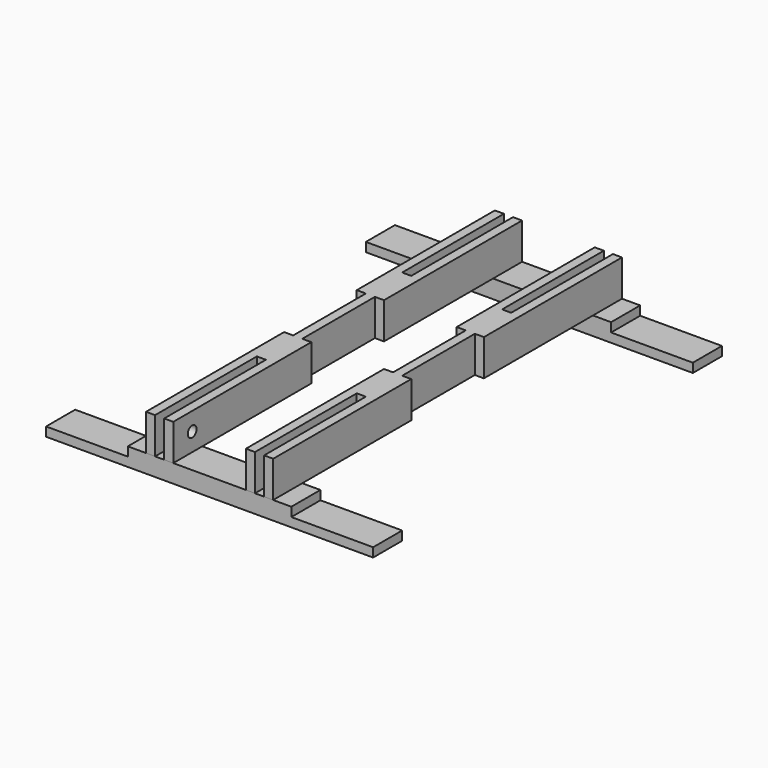
from build123d import *

# Parameters (mm, degrees)
F0_W      = 57.15
F0_H      = 25.4
F1_DEPTH  = 6.35
F0_W_2    = 114.3
F2_DEPTH  = 12.7
F4_W      = 6.35
F4_H      = 25.4
F5_DEPTH  = 304.8
F6_W      = 63.5
F6_H      = 25.4
F7_DEPTH  = 6.35
F8_W      = 63.5
F8_H      = 25.4
F9_DEPTH  = 6.35
F10_W     = 63.5
F10_H     = 25.4
F11_DEPTH = 6.35
F12_W     = 63.5
F12_H     = 25.4
F13_DEPTH = 6.35
F14_W     = 6.35
F14_H     = 88.9
F15_DEPTH = 25.4
F16_R     = 3.81
F17_DEPTH = 6.35
F18_R     = 3.81
F19_DEPTH = 6.35


with BuildPart() as f1:
    # F0 (on Top) → F1 (new body)
    with BuildSketch(Plane.XY):
        with Locations((85.725, -139.7)):
            Rectangle(F0_W, F0_H)
        with Locations((-85.725, -139.7)):
            Rectangle(F0_W, F0_H)
        with Locations((-85.725, 139.7)):
            Rectangle(F0_W, F0_H)
        with Locations((85.725, 139.7)):
            Rectangle(F0_W, F0_H)
    extrude(amount=F1_DEPTH)


with BuildPart() as f2:
    # F0 (on Top) → F2 (new body)
    with BuildSketch(Plane.XY):
        Polygon((-57.15, -127), (-57.15, -152.4), (57.15, -152.4), (57.15, -127), (0, -127), align=None)
        with Locations((0, 139.7)):
            Rectangle(F0_W_2, F0_H)
    extrude(amount=F2_DEPTH)


with BuildPart() as f1_1:
    add(f1.part)

    # F3: union F2
    add(f2.part)


with BuildPart() as f5:
    # F4 (on face) → F5 (new body)
    with BuildSketch(Plane.XZ.offset(152.4)):
        with Locations((-41.275, 25.4)):
            Rectangle(F4_W, F4_H)
        with Locations((-28.575, 25.4)):
            Rectangle(F4_W, F4_H)
        with Locations((41.275, 25.4)):
            Rectangle(F4_W, F4_H)
        with Locations((-34.925, 25.4)):
            Rectangle(F4_W, F4_H)
        with Locations((28.575, 25.4)):
            Rectangle(F4_W, F4_H)
        with Locations((34.925, 25.4)):
            Rectangle(F4_W, F4_H)
        with Locations((41.275, 25.4)):
            Rectangle(F4_W, F4_H)
    extrude(amount=-F5_DEPTH)

    # F6 (on face) → F7 (cut)
    with BuildSketch(Plane.YZ.offset(44.45)):
        with Locations((0, 25.4)):
            Rectangle(F6_W, F6_H)
    extrude(amount=-F7_DEPTH, mode=Mode.SUBTRACT)

    # F8 (on face) → F9 (cut)
    with BuildSketch(Plane(origin=(25.4, 0, 0), x_dir=(0, -1, 0), z_dir=(-1, 0, 0))):
        with Locations((0, 25.4)):
            Rectangle(F8_W, F8_H)
    extrude(amount=-F9_DEPTH, mode=Mode.SUBTRACT)

    # F10 (on face) → F11 (cut)
    with BuildSketch(Plane(origin=(-44.45, 0, 0), x_dir=(0, -1, 0), z_dir=(-1, 0, 0))):
        with Locations((0, 25.4)):
            Rectangle(F10_W, F10_H)
    extrude(amount=-F11_DEPTH, mode=Mode.SUBTRACT)

    # F12 (on face) → F13 (cut)
    with BuildSketch(Plane.YZ.offset(-25.4)):
        with Locations((0, 25.4)):
            Rectangle(F12_W, F12_H)
    extrude(amount=-F13_DEPTH, mode=Mode.SUBTRACT)

    # F14 (on face) → F15 (cut)
    with BuildSketch(Plane.XY.offset(38.1)):
        with Locations((-34.925, 107.95)):
            Rectangle(F14_W, F14_H)
        with Locations((-34.925, -107.95)):
            Rectangle(F14_W, F14_H)
        with Locations((34.925, 107.95)):
            Rectangle(F14_W, F14_H)
        with Locations((34.925, -107.95)):
            Rectangle(F14_W, F14_H)
    extrude(amount=-F15_DEPTH, mode=Mode.SUBTRACT)

    # F16 (on face) → F17 (cut)
    with BuildSketch(Plane.YZ.offset(-25.4)):
        with Locations((-135.89, 25.4)):
            Circle(F16_R)
    extrude(amount=-F17_DEPTH, mode=Mode.SUBTRACT)

    # F18 (on face) → F19 (cut)
    with BuildSketch(Plane(origin=(25.4, 0, 0), x_dir=(0, -1, 0), z_dir=(-1, 0, 0))):
        with Locations((135.89, 25.4)):
            Circle(F18_R)
    extrude(amount=-F19_DEPTH, mode=Mode.SUBTRACT)


solid = Compound([f1_1.part, f5.part])
